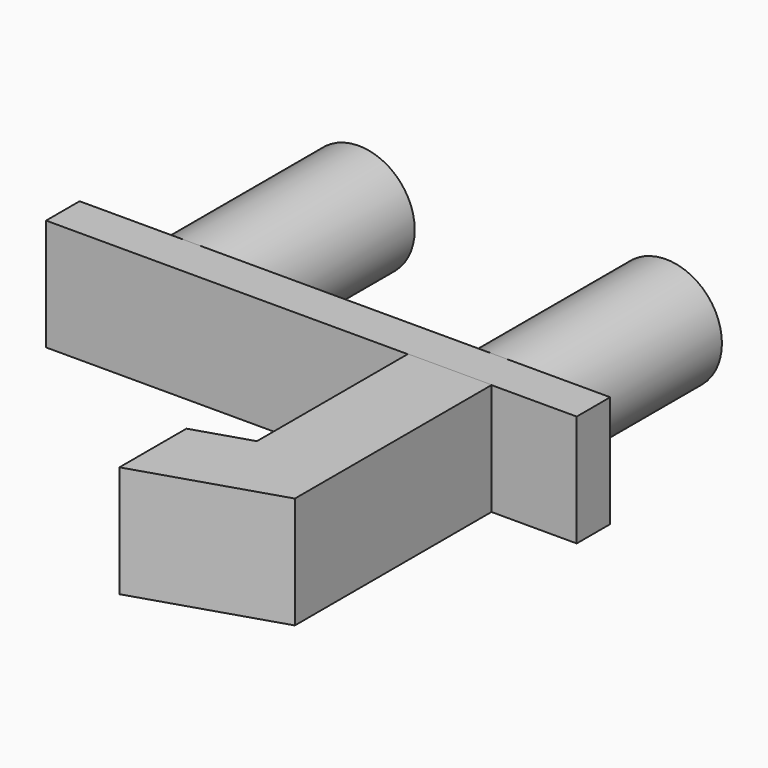
from build123d import *

# Parameters (mm, degrees)
CYLINDER_R             = 4
CYLINDER_DEPTH         = 15
CYLINDER_ROLL_ANGLE    = 90
CYLINDER001_R          = 4
CYLINDER001_DEPTH      = 15
CYLINDER001_ROLL_ANGLE = 90
BOX_W                  = 38
BOX_H                  = 3
BOX_DEPTH              = 8
PAD_DEPTH              = 4


with BuildPart() as pin1:
    # Cylinder → Cylinder (new body)
    with BuildSketch(Plane.XY):
        Circle(CYLINDER_R)
    extrude(amount=CYLINDER_DEPTH)


with BuildPart() as pin1_1:
    # Cylinder roll: moved
    add(pin1.part.rotate(Axis((0, 0, 0), (1, 0, 0)), CYLINDER_ROLL_ANGLE))


with BuildPart() as pin1_2:
    # Cylinder placement: moved
    add(pin1_1.part)


with BuildPart() as pin2:
    # Cylinder001 → Cylinder001 (new body)
    with BuildSketch(Plane.XY):
        Circle(CYLINDER001_R)
    extrude(amount=CYLINDER001_DEPTH)


with BuildPart() as pin2_1:
    # Cylinder001 roll: moved
    add(pin2.part.rotate(Axis((0, 0, 0), (1, 0, 0)), CYLINDER001_ROLL_ANGLE))


with BuildPart() as pin2_2:
    # Cylinder001 placement: moved
    add(pin2_1.part.moved(Location((22, 0, 0))))


with BuildPart() as base:
    # Box → Box (new body)
    with BuildSketch(Plane(origin=(-8, -18, -4), x_dir=(1, 0, 0), z_dir=(0, 0, 1))):
        with Locations((19, 1.5)):
            Rectangle(BOX_W, BOX_H)
    extrude(amount=BOX_DEPTH)


with BuildPart() as pad:
    # Sketch → Pad (new body, symmetric)
    with BuildSketch(Plane.XY):
        Polygon((17.895967, -17.968406), (23.895967, -17.968406), (23.895967, -35.599337), (13.8703, -38.772529), (13.8703, -32.772529), (17.895967, -31.498378), align=None)
    extrude(amount=PAD_DEPTH, both=True)


solid = Compound([pin1_2.part, pin2_2.part, base.part, pad.part])
